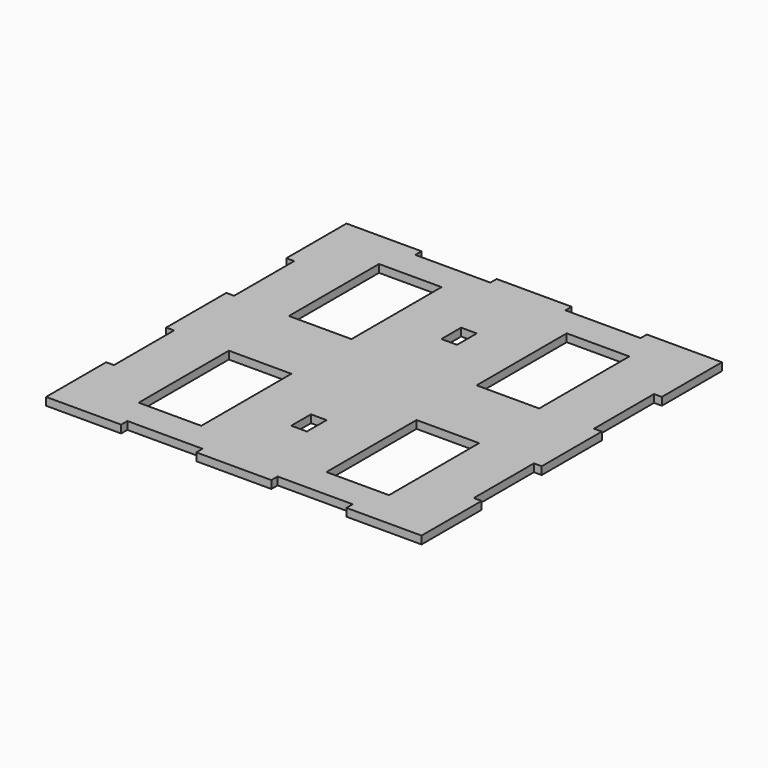
from build123d import *

# Parameters (mm, degrees)
F0_W     = 25.4
F0_H     = 45.72
F0_W_2   = 6.35
F0_H_2   = 10.0076
F1_DEPTH = 3.175


with BuildPart() as f1:
    # F0 (on Top) → F1 (new body)
    with BuildSketch(Plane.XY):
        Polygon((-45.72, 76.2), (-76.2, 76.2), (-76.2, 45.72), (-73.025, 45.72), (-73.025, 15.24), (-76.2, 15.24), (-76.2, -15.24), (-73.025, -15.24), (-73.025, -45.72), (-76.2, -45.72), (-76.2, -76.2), (-45.72, -76.2), (-45.72, -73.025), (-15.24, -73.025), (-15.24, -76.2), (15.24, -76.2), (15.24, -73.025), (45.72, -73.025), (45.72, -76.2), (76.2, -76.2), (76.2, -45.72), (73.025, -45.72), (73.025, -15.24), (76.2, -15.24), (76.2, 15.24), (73.025, 15.24), (73.025, 45.72), (76.2, 45.72), (76.2, 76.2), (45.72, 76.2), (45.72, 73.025), (15.24, 73.025), (15.24, 76.2), (-15.24, 76.2), (-15.24, 73.025), (-45.72, 73.025), align=None)
        with Locations((-38.1, -38.1)):
            Rectangle(F0_W, F0_H, mode=Mode.SUBTRACT)
        with Locations((0, -38.1)):
            Rectangle(F0_W_2, F0_H_2, mode=Mode.SUBTRACT)
        with Locations((38.1, -38.1)):
            Rectangle(F0_W, F0_H, mode=Mode.SUBTRACT)
        with Locations((-38.1, 38.1)):
            Rectangle(F0_W, F0_H, mode=Mode.SUBTRACT)
        with Locations((0, 38.1)):
            Rectangle(F0_W_2, F0_H_2, mode=Mode.SUBTRACT)
        with Locations((38.1, 38.1)):
            Rectangle(F0_W, F0_H, mode=Mode.SUBTRACT)
    extrude(amount=F1_DEPTH)


solid = f1.part
